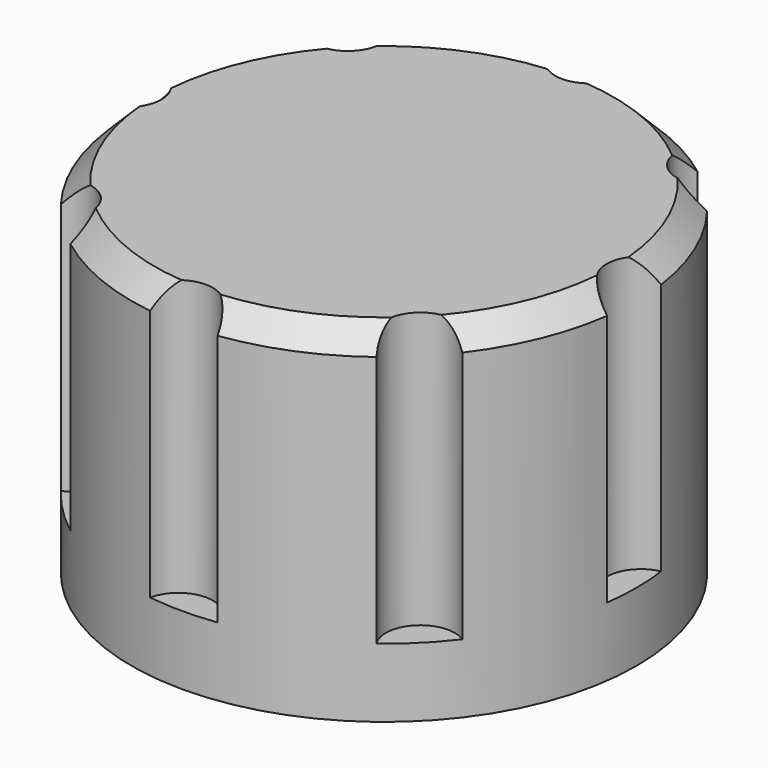
from build123d import *

# Parameters (mm, degrees)
CYLINDER001_R     = 1.5
CYLINDER001_DEPTH = 20
ARRAY_COUNT       = 8
CYLINDER_R        = 11
CYLINDER_DEPTH    = 15
CHAMFER_SIZE      = 1
CHAMFER001_SIZE   = 1
CHAMFER002_SIZE   = 1
CHAMFER003_SIZE   = 1
CHAMFER004_SIZE   = 1
CHAMFER005_SIZE   = 1
CHAMFER006_SIZE   = 1
CHAMFER007_SIZE   = 1


with BuildPart() as array:
    # Cylinder001 → Cylinder001 (new body)
    with BuildSketch(Plane(origin=(11.2, 0, 3), x_dir=(1, 0, 0), z_dir=(0, 0, 1))):
        Circle(CYLINDER001_R)
    extrude(amount=CYLINDER001_DEPTH)

    # Array: Array ×8 about axis
    array_axis = Axis((0, 0, 0), (0, 0, 1))


with BuildPart() as array_1:
    add(array.part)
    for i in range(1, ARRAY_COUNT):
        add(array.part.rotate(array_axis, i * 360 / ARRAY_COUNT))


with BuildPart() as chamfer007:
    # Cylinder → Cylinder (new body)
    with BuildSketch(Plane.XY):
        Circle(CYLINDER_R)
    extrude(amount=CYLINDER_DEPTH)

    # Cut: cut Array
    add(array_1.part, mode=Mode.SUBTRACT)

    # Chamfer
    chamfer_edges = [chamfer007.edges().sort_by_distance(p)[0] for p in [
        (4.209518, -10.162675, 15),
    ]]
    chamfer(chamfer_edges, length=CHAMFER_SIZE)

    # Chamfer001
    chamfer001_edges = [chamfer007.edges().sort_by_distance(p)[0] for p in [
        (10.162675, -4.209518, 15),
    ]]
    chamfer(chamfer001_edges, length=CHAMFER001_SIZE)

    # Chamfer002
    chamfer002_edges = [chamfer007.edges().sort_by_distance(p)[0] for p in [
        (10.162675, 4.209518, 15),
    ]]
    chamfer(chamfer002_edges, length=CHAMFER002_SIZE)

    # Chamfer003
    chamfer003_edges = [chamfer007.edges().sort_by_distance(p)[0] for p in [
        (4.209518, 10.162675, 15),
    ]]
    chamfer(chamfer003_edges, length=CHAMFER003_SIZE)

    # Chamfer004
    chamfer004_edges = [chamfer007.edges().sort_by_distance(p)[0] for p in [
        (-4.209518, 10.162675, 15),
    ]]
    chamfer(chamfer004_edges, length=CHAMFER004_SIZE)

    # Chamfer005
    chamfer005_edges = [chamfer007.edges().sort_by_distance(p)[0] for p in [
        (-10.162675, 4.209518, 15),
    ]]
    chamfer(chamfer005_edges, length=CHAMFER005_SIZE)

    # Chamfer006
    chamfer006_edges = [chamfer007.edges().sort_by_distance(p)[0] for p in [
        (-10.162675, -4.209518, 15),
    ]]
    chamfer(chamfer006_edges, length=CHAMFER006_SIZE)

    # Chamfer007
    chamfer007_edges = [chamfer007.edges().sort_by_distance(p)[0] for p in [
        (-4.209518, -10.162675, 15),
    ]]
    chamfer(chamfer007_edges, length=CHAMFER007_SIZE)


solid = chamfer007.part
